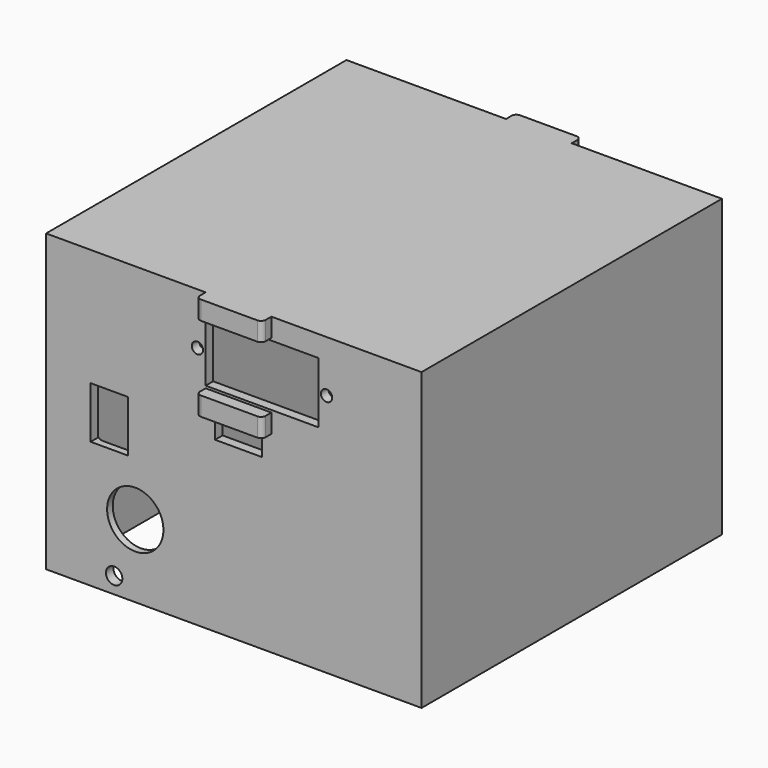
from build123d import *

# Parameters (mm, degrees)
BOX126_W               = 10
BOX126_H               = 94
BOX126_DEPTH           = 4
BOX123_W               = 14
BOX123_H               = 3
BOX123_DEPTH           = 4
BOX122_W               = 14
BOX122_H               = 3
BOX122_DEPTH           = 4
BOX124_W               = 14
BOX124_H               = 3
BOX124_DEPTH           = 4
BOX125_W               = 14
BOX125_H               = 3
BOX125_DEPTH           = 4
SKETCH022_R            = 1.2
SKETCH022_W            = 24
SKETCH022_H            = 13
PAD017_DEPTH           = 140
CYLINDER117_R          = 6
CYLINDER117_DEPTH      = 31
CYLINDER117_ROLL_ANGLE = 90
CYLINDER115_R          = 1.75
CYLINDER115_DEPTH      = 31
CYLINDER115_ROLL_ANGLE = 90
BOX120_W               = 17
BOX120_H               = 77
BOX120_DEPTH           = 49
FILLET018013056_R      = 2
CYLINDER118_R          = 4
CYLINDER118_DEPTH      = 31
CYLINDER118_ROLL_ANGLE = 90
CYLINDER116_R          = 1.75
CYLINDER116_DEPTH      = 31
CYLINDER116_ROLL_ANGLE = 90
BOX119_W               = 8
BOX119_H               = 24
BOX119_DEPTH           = 11
BOX118_W               = 76
BOX118_H               = 76
BOX118_DEPTH           = 66
FILLET018013055_R      = 3.5
BOX121_W               = 80
BOX121_H               = 80
BOX121_DEPTH           = 63
FILLET018013057_R      = 1


with BuildPart() as cubo061:
    # Box126 → Box126 (new body)
    with BuildSketch(Plane(origin=(13, -11, 104), x_dir=(1, 0, 0), z_dir=(0, 0, 1))):
        with Locations((5, 47)):
            Rectangle(BOX126_W, BOX126_H)
    extrude(amount=BOX126_DEPTH)


with BuildPart() as cubo058:
    # Box123 → Box123 (new body)
    with BuildSketch(Plane(origin=(11, 75.5, 127), x_dir=(1, 0, 0), z_dir=(0, 0, 1))):
        with Locations((7, 1.5)):
            Rectangle(BOX123_W, BOX123_H)
    extrude(amount=BOX123_DEPTH)


with BuildPart() as cubo057:
    # Box122 → Box122 (new body)
    with BuildSketch(Plane(origin=(11, 75.5, 109), x_dir=(1, 0, 0), z_dir=(0, 0, 1))):
        with Locations((7, 1.5)):
            Rectangle(BOX122_W, BOX122_H)
    extrude(amount=BOX122_DEPTH)


with BuildPart() as cubo059:
    # Box124 → Box124 (new body)
    with BuildSketch(Plane(origin=(11, -6.5, 109), x_dir=(1, 0, 0), z_dir=(0, 0, 1))):
        with Locations((7, 1.5)):
            Rectangle(BOX124_W, BOX124_H)
    extrude(amount=BOX124_DEPTH)


with BuildPart() as cubo060:
    # Box125 → Box125 (new body)
    with BuildSketch(Plane(origin=(11, -6.5, 127), x_dir=(1, 0, 0), z_dir=(0, 0, 1))):
        with Locations((7, 1.5)):
            Rectangle(BOX125_W, BOX125_H)
    extrude(amount=BOX125_DEPTH)


with BuildPart() as pad017:
    # Sketch022 → Pad017 (new body)
    with BuildSketch(Plane(origin=(-0.25, -35, 0), x_dir=(1, 0, 0), z_dir=(0, -1, 0))):
        with Locations((37, 120)):
            Circle(SKETCH022_R)
        with Locations((9.5, 120)):
            Circle(SKETCH022_R)
        with Locations((23.25, 120)):
            Rectangle(SKETCH022_W, SKETCH022_H)
    extrude(amount=-PAD017_DEPTH)


with BuildPart() as cylinder130:
    # Cylinder117 → Cylinder117 (new body)
    with BuildSketch(Plane.XY):
        Circle(CYLINDER117_R)
    extrude(amount=CYLINDER117_DEPTH)


with BuildPart() as cylinder130_1:
    # Cylinder117 roll: moved
    add(cylinder130.part.rotate(Axis((0, 0, 0), (1, 0, 0)), CYLINDER117_ROLL_ANGLE))


with BuildPart() as cylinder130_2:
    # Cylinder117 placement: moved
    add(cylinder130_1.part.moved(Location((-4, 11, 83.5))))


with BuildPart() as cylinder128:
    # Cylinder115 → Cylinder115 (new body)
    with BuildSketch(Plane.XY):
        Circle(CYLINDER115_R)
    extrude(amount=CYLINDER115_DEPTH)


with BuildPart() as cylinder128_1:
    # Cylinder115 roll: moved
    add(cylinder128.part.rotate(Axis((0, 0, 0), (1, 0, 0)), CYLINDER115_ROLL_ANGLE))


with BuildPart() as cylinder128_2:
    # Cylinder115 placement: moved
    add(cylinder128_1.part.moved(Location((-8.5, 11, 71.5))))


with BuildPart() as fillet018013056:
    # Box120 → Box120 (new body)
    with BuildSketch(Plane(origin=(-14, -2.5, 75), x_dir=(1, 0, 0), z_dir=(0, 0, 1))):
        with Locations((8.5, 38.5)):
            Rectangle(BOX120_W, BOX120_H)
    extrude(amount=BOX120_DEPTH)

    # Fillet018013056
    fillet018013056_edges = [fillet018013056.edges().sort_by_distance(p)[0] for p in [
        (-14, -2.5, 99.5),
        (-14, 36, 124),
        (-14, 74.5, 99.5),
        (-14, 36, 75),
        (3, -2.5, 99.5),
        (3, 36, 124),
        (3, 74.5, 99.5),
        (3, 36, 75),
        (-5.5, -2.5, 75),
        (-5.5, -2.5, 124),
        (-5.5, 74.5, 75),
        (-5.5, 74.5, 124),
    ]]
    fillet(fillet018013056_edges, radius=FILLET018013056_R)


with BuildPart() as cylinder131:
    # Cylinder118 → Cylinder118 (new body)
    with BuildSketch(Plane.XY):
        Circle(CYLINDER118_R)
    extrude(amount=CYLINDER118_DEPTH)


with BuildPart() as cylinder131_1:
    # Cylinder118 roll: moved
    add(cylinder131.part.rotate(Axis((0, 0, 0), (1, 0, 0)), CYLINDER118_ROLL_ANGLE))


with BuildPart() as cylinder131_2:
    # Cylinder118 placement: moved
    add(cylinder131_1.part.moved(Location((-7, 80, 89.6))))


with BuildPart() as cylinder129:
    # Cylinder116 → Cylinder116 (new body)
    with BuildSketch(Plane.XY):
        Circle(CYLINDER116_R)
    extrude(amount=CYLINDER116_DEPTH)


with BuildPart() as cylinder129_1:
    # Cylinder116 roll: moved
    add(cylinder129.part.rotate(Axis((0, 0, 0), (1, 0, 0)), CYLINDER116_ROLL_ANGLE))


with BuildPart() as cylinder129_2:
    # Cylinder116 placement: moved
    add(cylinder129_1.part.moved(Location((-8.5, 80, 71.5))))


with BuildPart() as fusion080:
    # Box119 → Box119 (new body)
    with BuildSketch(Plane(origin=(-13.5, -13, 95), x_dir=(1, 0, 0), z_dir=(0, 0, 1))):
        with Locations((4, 12)):
            Rectangle(BOX119_W, BOX119_H)
    extrude(amount=BOX119_DEPTH)

    # Fusion080: union Cylinder130, Cylinder128, Fillet018013056, Cylinder131, Cylinder129
    add(cylinder130_2.part)
    add(cylinder128_2.part)
    add(fillet018013056.part)
    add(cylinder131_2.part)
    add(cylinder129_2.part)


with BuildPart() as fillet018013055:
    # Box118 → Box118 (new body)
    with BuildSketch(Plane(origin=(-21, -2, 87), x_dir=(1, 0, 0), z_dir=(0, 0, 1))):
        with Locations((38, 38)):
            Rectangle(BOX118_W, BOX118_H)
    extrude(amount=BOX118_DEPTH)

    # Fillet018013055
    fillet018013055_edges = [fillet018013055.edges().sort_by_distance(p)[0] for p in [
        (-21, -2, 120),
        (-21, 36, 153),
        (-21, 74, 120),
        (55, -2, 120),
        (55, 36, 153),
        (55, 74, 120),
        (17, -2, 153),
        (17, 74, 153),
    ]]
    fillet(fillet018013055_edges, radius=FILLET018013055_R)


with BuildPart() as fillet018013055_1:
    # Fillet018013055 placement: moved
    add(fillet018013055.part.moved(Location((0, 0, -24))))


with BuildPart() as obj1:
    # Box121 → Box121 (new body)
    with BuildSketch(Plane(origin=(-23, -4, 68), x_dir=(1, 0, 0), z_dir=(0, 0, 1))):
        with Locations((40, 40)):
            Rectangle(BOX121_W, BOX121_H)
    extrude(amount=BOX121_DEPTH)

    # Cut139: cut Fillet018013055
    add(fillet018013055_1.part, mode=Mode.SUBTRACT)

    # Cut140: cut Fusion080
    add(fusion080.part, mode=Mode.SUBTRACT)

    # Cut141: cut Pad017
    add(pad017.part, mode=Mode.SUBTRACT)

    # Fusion081: union Cubo058, Cubo057, Cubo059, Cubo060
    add(cubo058.part)
    add(cubo057.part)
    add(cubo059.part)
    add(cubo060.part)

    # Fillet018013057
    fillet018013057_edges = [obj1.edges().sort_by_distance(p)[0] for p in [
        (25, -6.5, 129),
        (11, -6.5, 129),
        (11, -6.5, 111),
        (25, -6.5, 111),
        (25, 78.5, 129),
        (11, 78.5, 129),
        (25, 78.5, 111),
        (11, 78.5, 111),
    ]]
    fillet(fillet018013057_edges, radius=FILLET018013057_R)

    # Cut142: cut Cubo061
    add(cubo061.part, mode=Mode.SUBTRACT)


solid = obj1.part
